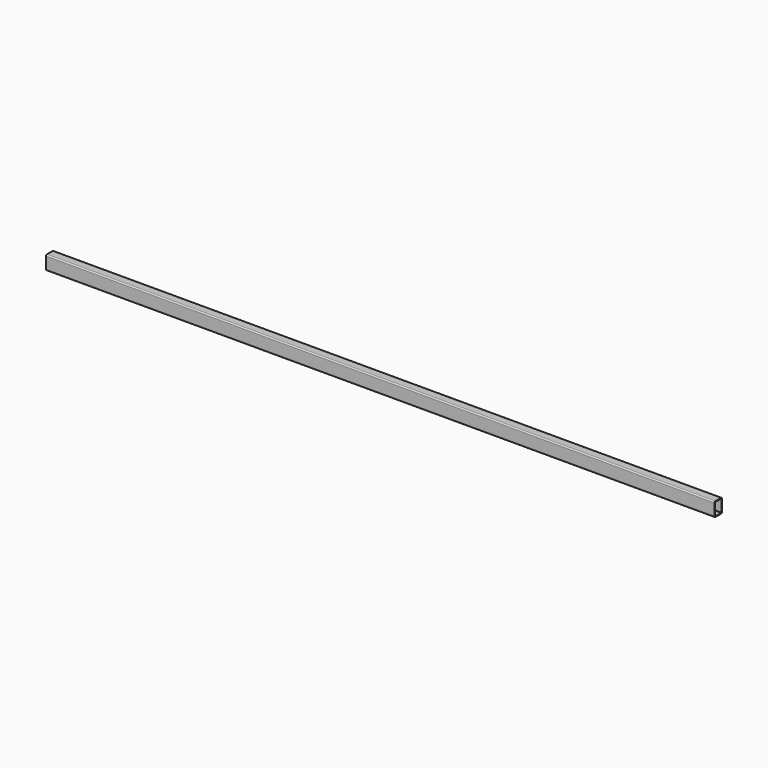
from build123d import *

# Parameters (mm, degrees)
F0_W     = 2867
F0_H     = 60
F1_DEPTH = 40
F2_T     = -3
F3_R     = 5
F4_R     = 1


with BuildPart() as f1:
    # F0 (on Front) → F1 (new body)
    with BuildSketch(Plane.XZ):
        with Locations((1433.5, 30)):
            Rectangle(F0_W, F0_H)
    extrude(amount=F1_DEPTH)

    # F2
    f2_openings = [f1.faces().sort_by_distance(p)[0] for p in [
        (0, -20, 30),
        (2867, -20, 30),
    ]]
    offset(amount=F2_T, openings=f2_openings)

    # F3
    f3_edges = [f1.edges().sort_by_distance(p)[0] for p in [
        (1433.5, -40, 60),
        (1433.5, -40, 0),
        (1433.5, 0, 0),
        (1433.5, 0, 60),
    ]]
    fillet(f3_edges, radius=F3_R)

    # F4
    f4_edges = [f1.edges().sort_by_distance(p)[0] for p in [
        (1433.5, -3, 3),
        (1433.5, -37, 3),
        (1433.5, -3, 57),
        (1433.5, -37, 57),
    ]]
    fillet(f4_edges, radius=F4_R)


solid = f1.part
